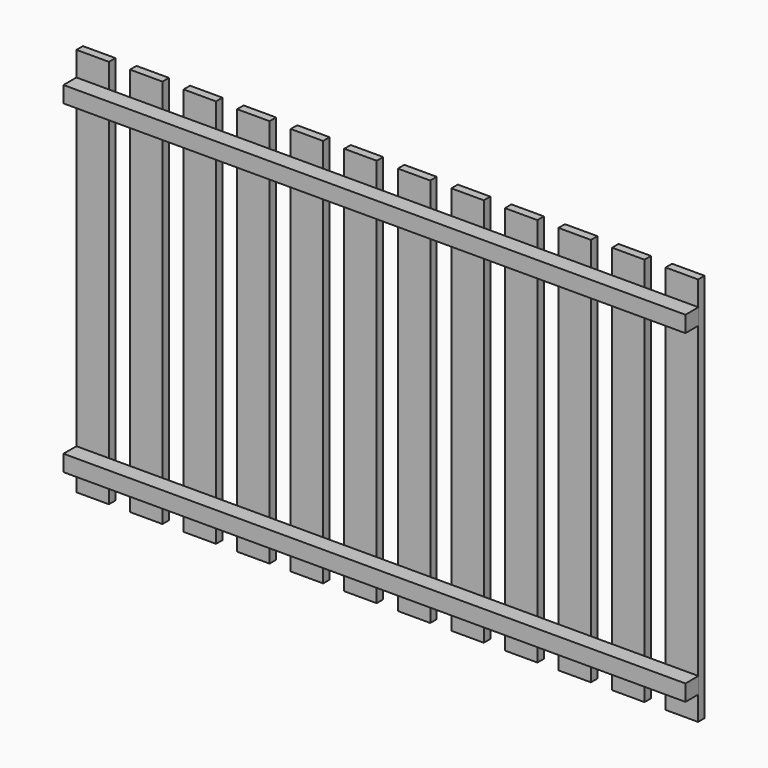
from build123d import *

# Parameters (mm, degrees)
F0_W     = 100
F0_H     = 1200
F1_DEPTH = 25
F2_W     = 1916.149882
F2_H     = 50
F3_DEPTH = 50


with BuildPart() as f1:
    # F0 (on Front) → F1 (new body)
    with BuildSketch(Plane.XZ):
        with Locations((113.0504, 247.89499)):
            Rectangle(F0_W, F0_H)
        with Locations((278.0504, 247.89499)):
            Rectangle(F0_W, F0_H)
        with Locations((443.0504, 247.89499)):
            Rectangle(F0_W, F0_H)
        with Locations((608.0504, 247.89499)):
            Rectangle(F0_W, F0_H)
        with Locations((773.0504, 247.89499)):
            Rectangle(F0_W, F0_H)
        with Locations((938.0504, 247.89499)):
            Rectangle(F0_W, F0_H)
        with Locations((1103.0504, 247.89499)):
            Rectangle(F0_W, F0_H)
        with Locations((1268.0504, 247.89499)):
            Rectangle(F0_W, F0_H)
        with Locations((1433.0504, 247.89499)):
            Rectangle(F0_W, F0_H)
        with Locations((1598.0504, 247.89499)):
            Rectangle(F0_W, F0_H)
        with Locations((1763.0504, 247.89499)):
            Rectangle(F0_W, F0_H)
        with Locations((-51.9496, 247.89499)):
            Rectangle(F0_W, F0_H)
    extrude(amount=F1_DEPTH)


with BuildPart() as f3:
    # F2 (on face) → F3 (new body)
    with BuildSketch(Plane.XZ.offset(25)):
        with Locations((856.125341, 747.89499)):
            Rectangle(F2_W, F2_H)
        with Locations((856.125341, -252.10501)):
            Rectangle(F2_W, F2_H)
    extrude(amount=F3_DEPTH)


solid = Compound([f1.part, f3.part])
